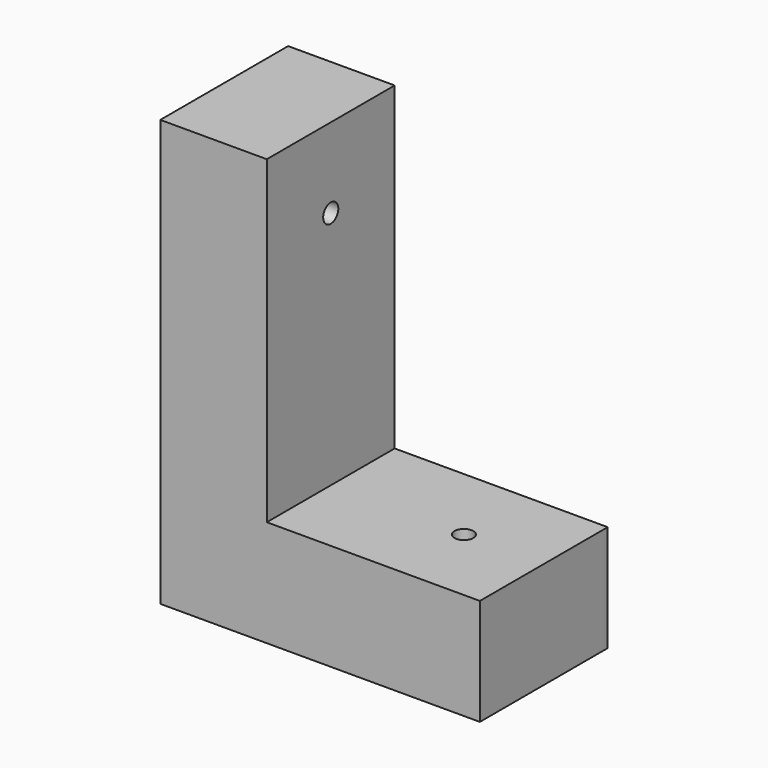
from build123d import *

# Parameters (mm, degrees)
F1_DEPTH = 76.2
F3_R     = 4.5085
F4_DEPTH = 101.6
F2_R     = 4.5085
F5_DEPTH = 584.2


with BuildPart() as f1:
    # F0 (on Front) → F1 (new body)
    with BuildSketch(Plane.XZ):
        Polygon((-69.243231, 104.089492), (-120.043231, 104.089492), (-120.043231, -99.110508), (32.356769, -99.110508), (32.356769, -48.310508), (-69.243231, -48.310508), align=None)
    extrude(amount=F1_DEPTH)

    # F3 (on Top) → F4 (cut)
    with BuildSketch(Plane.XY):
        with Locations((-5.743231, -38.1)):
            Circle(F3_R)
    extrude(amount=-F4_DEPTH, mode=Mode.SUBTRACT)

    # F2 (on face) → F5 (cut)
    with BuildSketch(Plane.YZ.offset(-69.243231)):
        with Locations((-38.1, 65.989492)):
            Circle(F2_R)
    extrude(amount=-F5_DEPTH, mode=Mode.SUBTRACT)


solid = f1.part
